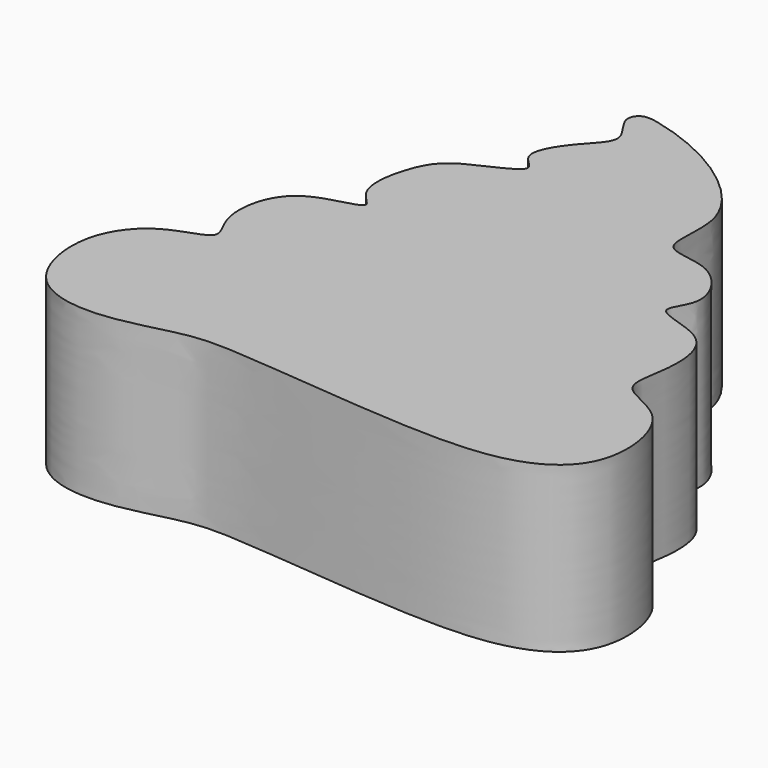
from build123d import *

# Parameters (mm, degrees)
F1_DEPTH = 25.4


with BuildPart() as f1:
    # F0 (on Top) → F1 (new body)
    with BuildSketch(Plane.XY):
        with BuildLine():
            add(Edge.make_bspline(
                [(-1.8115468556, 44.5841886103), (0.5847813329, 44.0401447315), (9.138283961, 41.3509184917), (21.593322775, 30.6330292245), (17.6606932888, 18.6223013739), (27.1967193751, 20.0842255978), (32.9588578784, 11.3259202149), (26.9783111055, 5.9347790737), (39.153894842, 5.0445199616), (39.5545661975, -5.2504131076), (37.3128679429, -12.4289734317), (47.3777846624, -14.1152476578), (49.9003317851, -28.1233364023), (41.6166380171, -36.0584105024), (23.6628119629, -36.7982315201), (-3.8848393545, -33.5690244167), (-11.9866526889, -33.848384052), (-23.2333354514, -37.5378178782), (-35.147615023, -35.3096677225), (-38.2926092594, -22.0281584778), (-32.2349034203, -13.6338636723), (-23.2293405105, -12.2903336113), (-27.8887699459, -7.3126703143), (-26.1722438763, 4.3466789931), (-13.2826681537, 4.9922711447), (-19.4782502823, 8.4317610762), (-17.8319942239, 17.2132103049), (-14.642402751, 21.6834286162), (-4.1729213207, 25.1123302632), (-10.2430938011, 27.9719569085), (-5.834875011, 34.6037423445), (-1.450649774, 38.291692516), (-6.0746323796, 42.5361112474), (-4.4939225245, 45.0418500627), (-2.9788982881, 44.8492150805), (-1.8115468556, 44.5841886103)],
                knots=[0, 0, 0, 0, 0.0354410143, 0.0776856903, 0.1091529873, 0.1368786059, 0.168175805, 0.1907046415, 0.2209178607, 0.2531655261, 0.2793926275, 0.3090169953, 0.3459339274, 0.3789090978, 0.4244489101, 0.4805857156, 0.5112646035, 0.5471261797, 0.5820388187, 0.6181931667, 0.6516524215, 0.6788252195, 0.7013540552, 0.7355368586, 0.7666262044, 0.7864877304, 0.8167910914, 0.843555156, 0.8736292185, 0.8926695558, 0.9205964782, 0.9443934725, 0.9677078523, 0.9827352034, 1, 1, 1, 1], degree=3))
        make_face()
    extrude(amount=F1_DEPTH)


solid = f1.part
